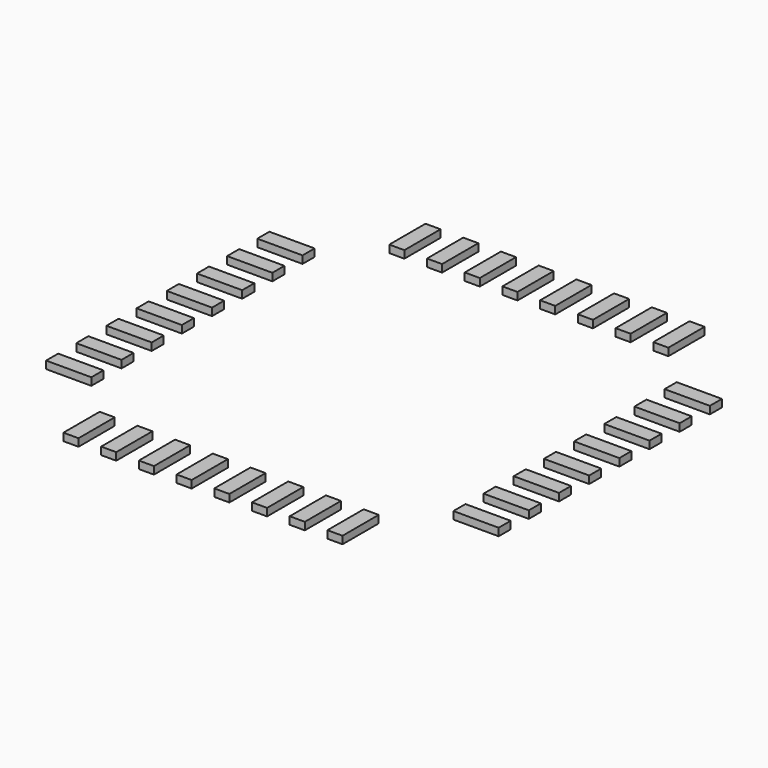
from build123d import *

# Parameters (mm, degrees)
BOX043_W                = 0.2
BOX043_H                = 0.6
BOX043_DEPTH            = 0.1
ARRAY014_X_COUNT        = 8
ARRAY014_X_PITCH        = 0.5
ARRAY014_Y_COUNT        = 2
ARRAY014_Y_PITCH        = 5.4
LINK002_PLACEMENT_ANGLE = 90


with BuildPart() as array014:
    # Box043 → Box043 (new body)
    with BuildSketch(Plane(origin=(-1.85, 2.4, 0), x_dir=(1, 0, 0), z_dir=(0, 0, 1))):
        with Locations((0.1, 0.3)):
            Rectangle(BOX043_W, BOX043_H)
    extrude(amount=BOX043_DEPTH)

    # Array014 X: Array014 ×8


with BuildPart() as array014_1:
    add(array014.part)
    with Locations(*[(i * ARRAY014_X_PITCH, 0, 0) for i in range(1, ARRAY014_X_COUNT)]):
        add(array014.part)

    # Array014 Y: Array014 ×2


with BuildPart() as array014_2:
    add(array014_1.part)
    with Locations(*[(0, -i * ARRAY014_Y_PITCH, 0) for i in range(1, ARRAY014_Y_COUNT)]):
        add(array014_1.part)


with BuildPart() as array020:
    # Link002 base: copy of Array014
    add(array014_2.part)


with BuildPart() as array020_1:
    # Link002 placement: moved
    add(array020.part.rotate(Axis((0, 0, 0), (0, 0, 1)), LINK002_PLACEMENT_ANGLE))


with BuildPart() as pins001:
    # Fusion027 base: copy of Array014
    add(array014_2.part)

    # Fusion027: union Array020
    add(array020_1.part)


solid = pins001.part
